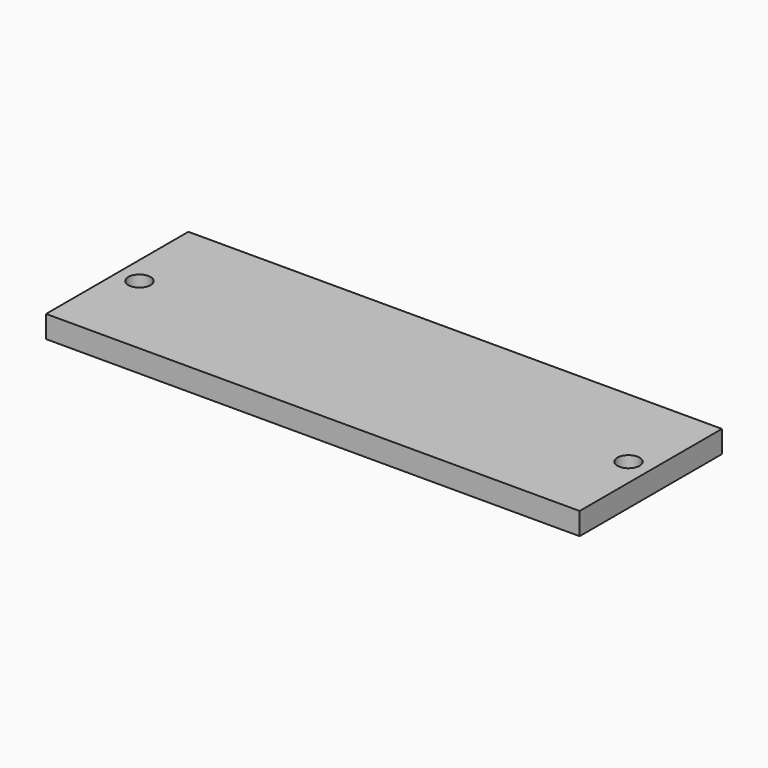
from build123d import *

# Parameters (mm, degrees)
F0_W     = 609.6
F0_H     = 203.2
F1_DEPTH = 25.4
F3_R     = 12.7
F4_DEPTH = 25.4


with BuildPart() as f1:
    # F0 (on Top) → F1 (new body)
    with BuildSketch(Plane.XY):
        Rectangle(F0_W, F0_H)
    extrude(amount=F1_DEPTH)

    # F3 (on face) → F4 (cut, through all)
    with BuildSketch(Plane(origin=(0, 0, 0), x_dir=(1, 0, 0), z_dir=(0, 0, -1))):
        with Locations((-279.4, 0)):
            Circle(F3_R)
        with Locations((279.4, 0)):
            Circle(F3_R)
    extrude(amount=-F4_DEPTH, mode=Mode.SUBTRACT)


solid = f1.part
